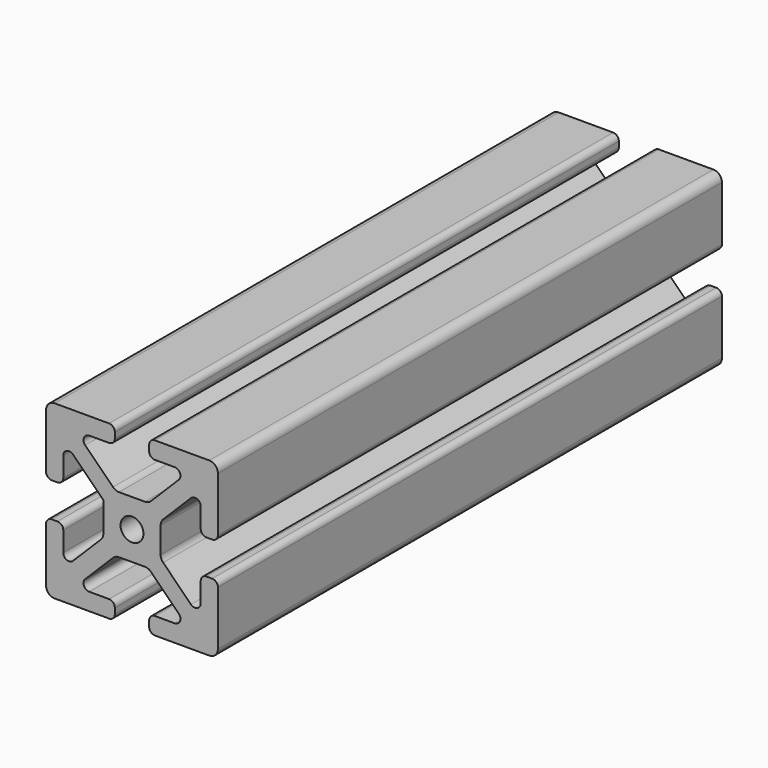
from build123d import *

# Parameters (mm, degrees)
F0_R     = 2
F1_DEPTH = 110


with BuildPart() as f1:
    # F0 (on Front) → F1 (new body)
    with BuildSketch(Plane.XZ):
        with BuildLine():
            ThreePointArc((15, 13.5), (14.56066, 14.56066), (13.5, 15))
            Line((13.5, 15), (4, 15))
            ThreePointArc((4, 15), (3.292893, 14.707107), (3, 14))
            Line((3, 14), (3, 13))
            ThreePointArc((3, 13), (3.292893, 12.292893), (4, 12))
            Line((4, 12), (7.464466, 12))
            ThreePointArc((7.464466, 12), (8.388346, 11.382683), (8.171573, 10.292893))
            Line((8.171573, 10.292893), (3.318019, 5.43934))
            ThreePointArc((3.318019, 5.43934), (2.831384, 5.114181), (2.257359, 5))
            Line((2.257359, 5), (-2.257359, 5))
            ThreePointArc((-2.257359, 5), (-2.831384, 5.114181), (-3.318019, 5.43934))
            Line((-3.318019, 5.43934), (-8.171573, 10.292893))
            ThreePointArc((-8.171573, 10.292893), (-8.388346, 11.382683), (-7.464466, 12))
            Line((-7.464466, 12), (-4, 12))
            ThreePointArc((-4, 12), (-3.292893, 12.292893), (-3, 13))
            Line((-3, 13), (-3, 14))
            ThreePointArc((-3, 14), (-3.292893, 14.707107), (-4, 15))
            Line((-4, 15), (-13.5, 15))
            ThreePointArc((-13.5, 15), (-14.56066, 14.56066), (-15, 13.5))
            Line((-15, 13.5), (-15, 4))
            ThreePointArc((-15, 4), (-14.707107, 3.292893), (-14, 3))
            Line((-14, 3), (-13, 3))
            ThreePointArc((-13, 3), (-12.292893, 3.292893), (-12, 4))
            Line((-12, 4), (-12, 7.464466))
            ThreePointArc((-12, 7.464466), (-11.382683, 8.388346), (-10.292893, 8.171573))
            Line((-10.292893, 8.171573), (-5, 2.87868))
            Line((-5, 2.87868), (-5, -2.257359))
            ThreePointArc((-5, -2.257359), (-5.114181, -2.831384), (-5.43934, -3.318019))
            Line((-5.43934, -3.318019), (-10.292893, -8.171573))
            ThreePointArc((-10.292893, -8.171573), (-11.382683, -8.388346), (-12, -7.464466))
            Line((-12, -7.464466), (-12, -4))
            ThreePointArc((-12, -4), (-12.292893, -3.292893), (-13, -3))
            Line((-13, -3), (-14, -3))
            ThreePointArc((-14, -3), (-14.707107, -3.292893), (-15, -4))
            Line((-15, -4), (-15, -13.5))
            ThreePointArc((-15, -13.5), (-14.56066, -14.56066), (-13.5, -15))
            Line((-13.5, -15), (-4, -15))
            ThreePointArc((-4, -15), (-3.292893, -14.707107), (-3, -14))
            Line((-3, -14), (-3, -13))
            ThreePointArc((-3, -13), (-3.292893, -12.292893), (-4, -12))
            Line((-4, -12), (-7.464466, -12))
            ThreePointArc((-7.464466, -12), (-8.388346, -11.382683), (-8.171573, -10.292893))
            Line((-8.171573, -10.292893), (-3.318019, -5.43934))
            ThreePointArc((-3.318019, -5.43934), (-2.831384, -5.114181), (-2.257359, -5))
            Line((-2.257359, -5), (2.257359, -5))
            ThreePointArc((2.257359, -5), (2.831384, -5.114181), (3.318019, -5.43934))
            Line((3.318019, -5.43934), (8.171573, -10.292893))
            ThreePointArc((8.171573, -10.292893), (8.388346, -11.382683), (7.464466, -12))
            Line((7.464466, -12), (4, -12))
            ThreePointArc((4, -12), (3.292893, -12.292893), (3, -13))
            Line((3, -13), (3, -14))
            ThreePointArc((3, -14), (3.292893, -14.707107), (4, -15))
            Line((4, -15), (13.5, -15))
            ThreePointArc((13.5, -15), (14.56066, -14.56066), (15, -13.5))
            Line((15, -13.5), (15, -4))
            ThreePointArc((15, -4), (14.707107, -3.292893), (14, -3))
            Line((14, -3), (13, -3))
            ThreePointArc((13, -3), (12.292893, -3.292893), (12, -4))
            Line((12, -4), (12, -7.464466))
            ThreePointArc((12, -7.464466), (11.382683, -8.388346), (10.292893, -8.171573))
            Line((10.292893, -8.171573), (5.43934, -3.318019))
            ThreePointArc((5.43934, -3.318019), (5.114181, -2.831384), (5, -2.257359))
            Line((5, -2.257359), (5, 2.257359))
            ThreePointArc((5, 2.257359), (5.114181, 2.831384), (5.43934, 3.318019))
            Line((5.43934, 3.318019), (10.292893, 8.171573))
            ThreePointArc((10.292893, 8.171573), (11.382683, 8.388346), (12, 7.464466))
            Line((12, 7.464466), (12, 4))
            ThreePointArc((12, 4), (12.292893, 3.292893), (13, 3))
            Line((13, 3), (14, 3))
            ThreePointArc((14, 3), (14.707107, 3.292893), (15, 4))
            Line((15, 4), (15, 13.5))
        make_face()
        Circle(F0_R, mode=Mode.SUBTRACT)
    extrude(amount=-F1_DEPTH)


solid = f1.part
